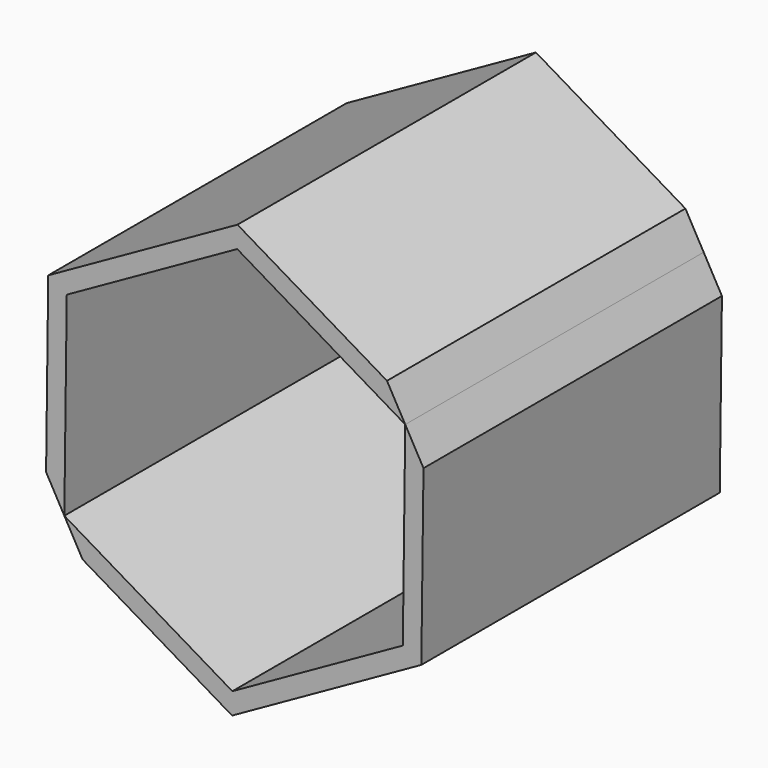
from build123d import *

# Parameters (mm, degrees)
F1_DEPTH = 50.8
F2_T     = -2.54
F3_DEPTH = 6.35


with BuildPart() as f1:
    # F0 (on Front) → F1 (new body)
    with BuildSketch(Plane.XZ):
        Polygon((25.7705814952, 14.4541892727), (0.3675956464, 29.5450728815), (-25.4029858488, 15.0908836088), (-25.7705814952, -14.4541892727), (-0.3675956464, -29.5450728815), (25.4029858488, -15.0908836088), align=None)
    extrude(amount=F1_DEPTH)

    # F2
    f2_openings = [f1.faces().sort_by_distance(p)[0] for p in [
        (0, 0, 0),
        (0, -50.8, 0),
    ]]
    offset(amount=F2_T, openings=f2_openings)

    # F3 (intersect, symmetric): faces of the model
    f3_faces = [f1.faces().sort_by_distance(p)[0] for p in [
        (11.2751596844, -25.4, -20.102644018),
        (-11.7718205606, -25.4, -19.8158967274),
        (23.046980245, -25.4, -0.2867472906),
        (11.7718205606, -25.4, 19.8158967274),
        (-23.046980245, -25.4, 0.2867472906),
        (-11.2751596844, -25.4, 20.102644018),
    ]]
    extrude(f3_faces, amount=F3_DEPTH, both=True, dir=(-0.489187172, 0, 0.8721788296), mode=Mode.INTERSECT)


solid = f1.part
